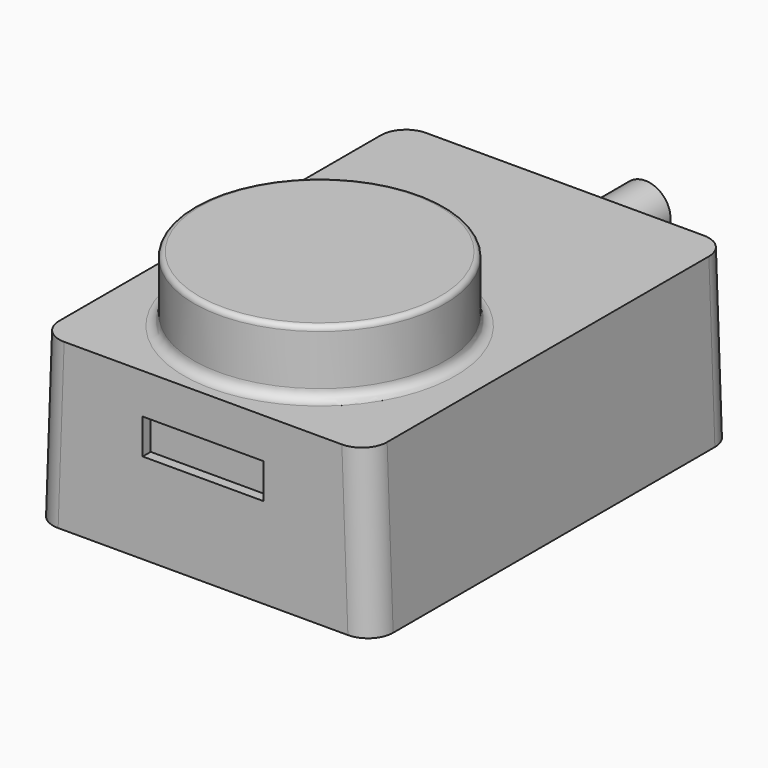
from build123d import *

# Parameters (mm, degrees)
PAD_DEPTH    = 90
SKETCH001_W  = 24
SKETCH001_H  = 7
POCKET_DEPTH = 2
SKETCH002_R  = 25
PAD001_DEPTH = 13
FILLET_R     = 1
FILLET001_R  = 2
FILLET002_R  = 5
SKETCH003_R  = 5
PAD002_DEPTH = 20
FILLET003_R  = 2


with BuildPart() as part:
    # Sketch → Pad (new body)
    with BuildSketch(Plane.XZ):
        Polygon((-32.625, 33), (32.625, 33), (33.825, 0), (-33.825, 0), align=None)
    extrude(amount=-PAD_DEPTH)

    # Sketch001 (on Face5 of Pad) → Pocket (cut)
    with BuildSketch(Plane.XZ):
        with Locations((0, 21.5)):
            Rectangle(SKETCH001_W, SKETCH001_H)
    extrude(amount=-POCKET_DEPTH, mode=Mode.SUBTRACT)

    # Sketch002 (on Face1 of Pocket) → Pad001 (join)
    with BuildSketch(Plane(origin=(0, 0, 33), x_dir=(-1, 0, 0), z_dir=(0, 0, 1))):
        with Locations((0, -29)):
            Circle(SKETCH002_R)
    extrude(amount=PAD001_DEPTH)

    # Fillet
    fillet_edges = [part.edges().sort_by_distance(p)[0] for p in [
        (25, 29, 46),
    ]]
    fillet(fillet_edges, radius=FILLET_R)

    # Fillet001
    fillet001_edges = [part.edges().sort_by_distance(p)[0] for p in [
        (25, 29, 33),
    ]]
    fillet(fillet001_edges, radius=FILLET001_R)

    # Fillet002
    fillet002_edges = [part.edges().sort_by_distance(p)[0] for p in [
        (33.225, 0, 16.5),
        (33.225, 90, 16.5),
        (-33.225, 0, 16.5),
        (-33.225, 90, 16.5),
    ]]
    fillet(fillet002_edges, radius=FILLET002_R)

    # Sketch003 (on Face6 of Fillet002) → Pad002 (join)
    with BuildSketch(Plane(origin=(0, 90, 0), x_dir=(1, 0, 0), z_dir=(0, 1, 0))):
        with Locations((0, -20.5)):
            Circle(SKETCH003_R)
    extrude(amount=PAD002_DEPTH)

    # Fillet003
    fillet003_edges = [part.edges().sort_by_distance(p)[0] for p in [
        (-5, 90, 20.5),
    ]]
    fillet(fillet003_edges, radius=FILLET003_R)


solid = part.part
